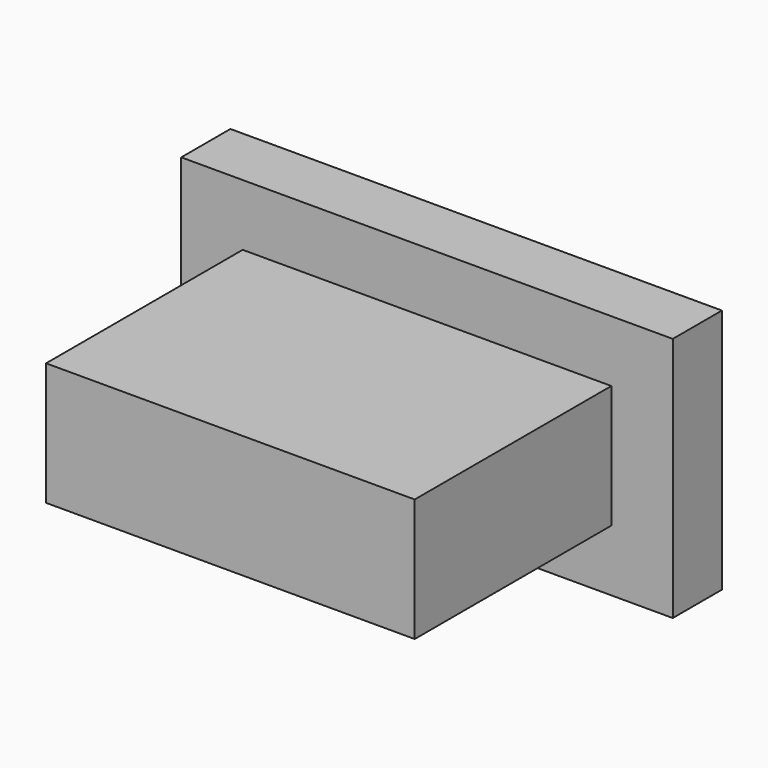
from build123d import *

# Parameters (mm, degrees)
F0_W     = 38.1
F0_H     = 12.7
F1_DEPTH = 25.4
F2_W     = 50.8
F2_H     = 25.4
F2_W_2   = 38.1
F2_H_2   = 12.7
F3_DEPTH = 6.35


with BuildPart() as f1:
    # F0 (on Front) → F1 (new body)
    with BuildSketch(Plane.XZ):
        with Locations((-1.414714, -2.539574)):
            Rectangle(F0_W, F0_H)
    extrude(amount=-F1_DEPTH)


with BuildPart() as f3:
    # F2 (on face) → F3 (new body)
    with BuildSketch(Plane(origin=(0, 25.4, 0), x_dir=(-1, 0, 0), z_dir=(0, 1, 0))):
        with Locations((1.414714, -2.539574)):
            Rectangle(F2_W, F2_H)
        with Locations((1.414714, -2.539574)):
            Rectangle(F2_W_2, F2_H_2, mode=Mode.SUBTRACT)
    extrude(amount=F3_DEPTH)


solid = Compound([f1.part, f3.part])
